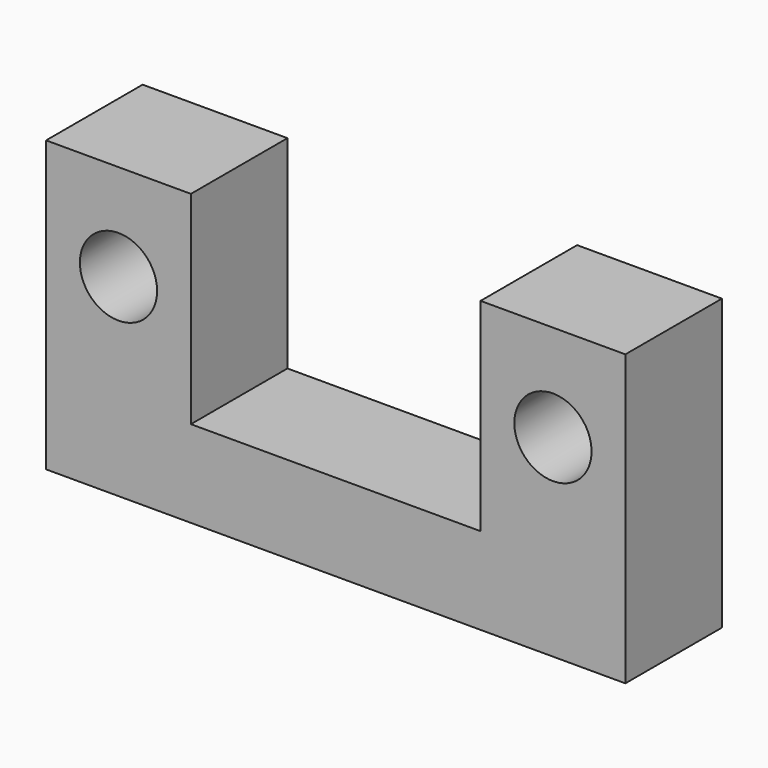
from build123d import *

# Parameters (mm, degrees)
F0_W      = 60
F0_H      = 40
F0_R      = 8
F1_DEPTH  = 25
F2_FACE_W = 120
F2_FACE_H = 25
F3_DEPTH  = 20
F4_W      = 60
F4_H      = 42
F5_DEPTH  = 25.001


with BuildPart() as f1:
    # F0 (on Front) → F1 (new body)
    with BuildSketch(Plane.XZ):
        with Locations((-30, 20)):
            Rectangle(F0_W, F0_H)
        with Locations((-45, 20)):
            Circle(F0_R, mode=Mode.SUBTRACT)
    extrude(amount=F1_DEPTH)

    # F2: F1 across face


with BuildPart() as f1_1:
    add(f1.part)
    add(f1.part.mirror(Plane(origin=(0, -12.5, 20), x_dir=(0, 1, 0), z_dir=(1, 0, 0))))

    # F2_face (on face) → F3 (join)
    with BuildSketch(Plane(origin=(0, -12.5, 0), x_dir=(1, 0, 0), z_dir=(0, 0, -1))):
        Rectangle(F2_FACE_W, F2_FACE_H)
    extrude(amount=F3_DEPTH)

    # F4 (on face) → F5 (cut, through all)
    with BuildSketch(Plane.XZ.offset(25)):
        with Locations((0, 19)):
            Rectangle(F4_W, F4_H)
    extrude(amount=-F5_DEPTH, mode=Mode.SUBTRACT)


solid = f1_1.part
